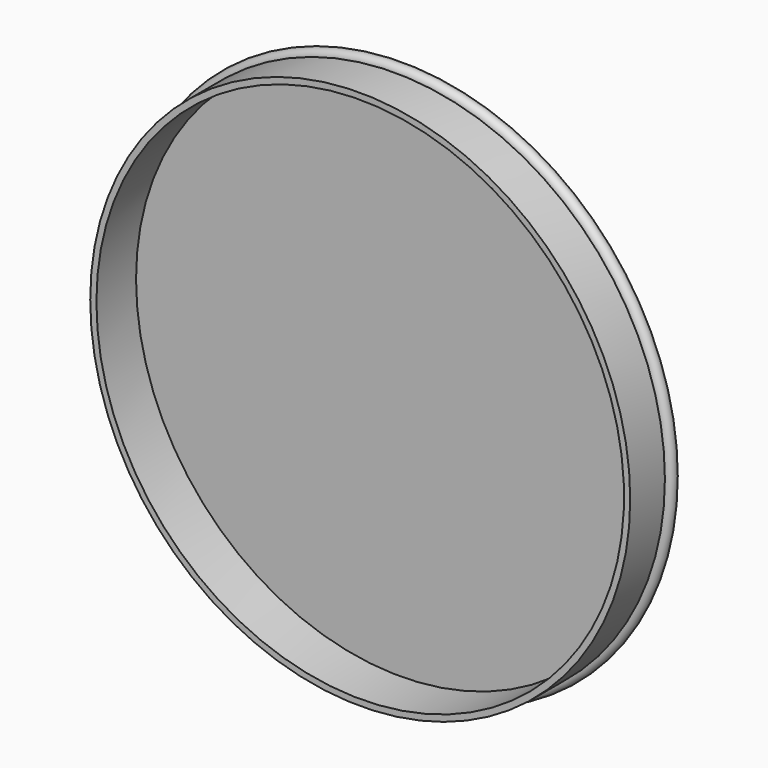
from build123d import *


with BuildPart() as part:
    # Sketch (on XY_Plane of Origin) → Revolution (revolve)
    with BuildSketch(Plane.XY):
        with BuildLine():
            Line((-42.6, 0), (-43.6, 0))
            Line((-43.6, 0), (-43.6, 7))
            ThreePointArc((-43.6, 9), (-44.6, 8), (-43.6, 7))
            Line((-43.6, 9), (0, 9))
            Line((0, 9), (0, 8))
            Line((-42.6, 8), (0, 8))
            Line((-42.6, 0), (-42.6, 8))
        make_face()
    revolve(axis=Axis((0, 0, 0), (0, 1, 0)))


solid = part.part
